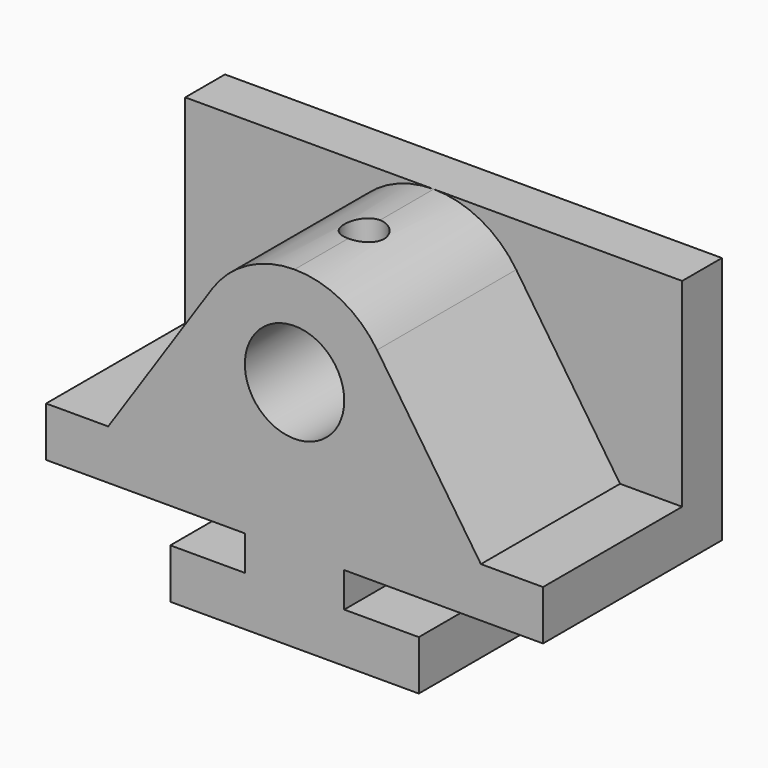
from build123d import *

# Parameters (mm, degrees)
F0_R     = 12.7
F1_DEPTH = 57.15
F2_DEPTH = 44.45
F3_R     = 5.08
F4_DEPTH = 25.4


with BuildPart() as f1:
    # F0 (on Front) → F1 (new body)
    with BuildSketch(Plane.XZ):
        with BuildLine():
            Line((0, 12.7), (0, 0))
            Line((0, 0), (50.8, 0))
            Line((50.8, 0), (50.8, -8.89))
            Line((50.8, -8.89), (31.75, -8.89))
            Line((31.75, -8.89), (31.75, -21.59))
            Line((31.75, -21.59), (95.25, -21.59))
            Line((95.25, -21.59), (95.25, -8.89))
            Line((95.25, -8.89), (76.2, -8.89))
            Line((76.2, -8.89), (76.2, 0))
            Line((76.2, 0), (127, 0))
            Line((127, 0), (127, 12.7))
            Line((127, 12.7), (111.125, 12.7))
            Line((111.125, 12.7), (84.593426, 52.250173))
            ThreePointArc((84.593426, 52.250173), (75.452941, 60.511765), (63.5, 63.5))
            ThreePointArc((63.5, 63.5), (51.547059, 60.511765), (42.406574, 52.250173))
            Line((42.406574, 52.250173), (15.875, 12.7))
            Line((15.875, 12.7), (0, 12.7))
        make_face()
        with Locations((63.5, 38.1)):
            Circle(F0_R, mode=Mode.SUBTRACT)
        with BuildLine():
            Line((0, 63.5), (0, 12.7))
            Line((0, 12.7), (15.875, 12.7))
            Line((15.875, 12.7), (42.406574, 52.250173))
            ThreePointArc((42.406574, 52.250173), (51.547059, 60.511765), (63.5, 63.5))
            Line((63.5, 63.5), (0, 63.5))
        make_face()
        with BuildLine():
            Line((127, 63.5), (63.5, 63.5))
            ThreePointArc((63.5, 63.5), (75.452941, 60.511765), (84.593426, 52.250173))
            Line((84.593426, 52.250173), (111.125, 12.7))
            Line((111.125, 12.7), (127, 12.7))
            Line((127, 12.7), (127, 63.5))
        make_face()
    extrude(amount=-F1_DEPTH)

    # F0 (on Front) → F2 (cut)
    with BuildSketch(Plane.XZ):
        with BuildLine():
            Line((127, 63.5), (63.5, 63.5))
            ThreePointArc((63.5, 63.5), (75.452941, 60.511765), (84.593426, 52.250173))
            Line((84.593426, 52.250173), (111.125, 12.7))
            Line((111.125, 12.7), (127, 12.7))
            Line((127, 12.7), (127, 63.5))
        make_face()
        with BuildLine():
            Line((0, 63.5), (0, 12.7))
            Line((0, 12.7), (15.875, 12.7))
            Line((15.875, 12.7), (42.406574, 52.250173))
            ThreePointArc((42.406574, 52.250173), (51.547059, 60.511765), (63.5, 63.5))
            Line((63.5, 63.5), (0, 63.5))
        make_face()
    extrude(amount=-F2_DEPTH, mode=Mode.SUBTRACT)

    # F3 (on face) → F4 (cut)
    with BuildSketch(Plane.XY.offset(63.5)):
        with Locations((63.5, 22.225)):
            Circle(F3_R)
    extrude(amount=-F4_DEPTH, mode=Mode.SUBTRACT)


solid = f1.part
